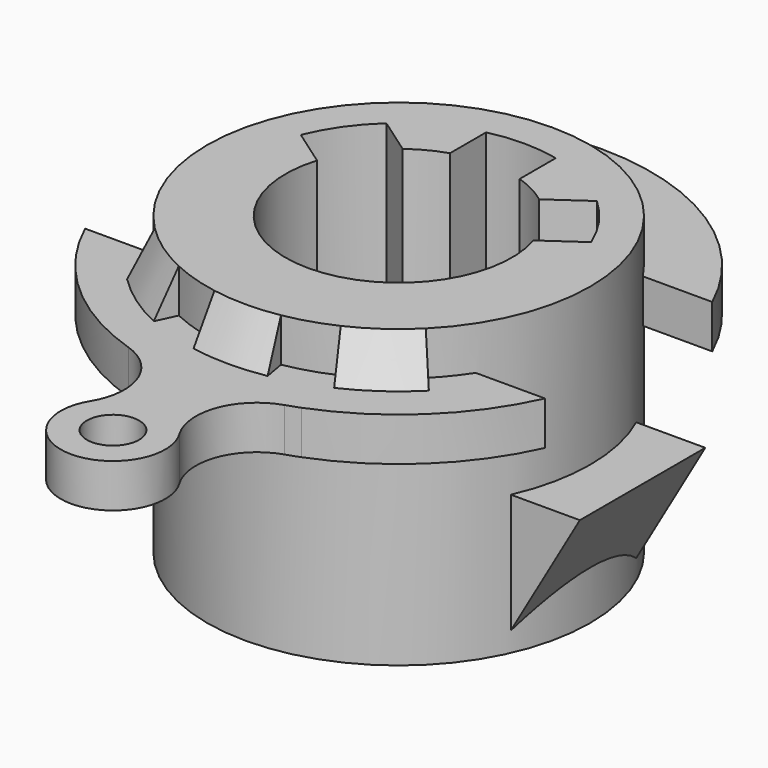
from build123d import *

# Parameters (mm, degrees)
F0_R           = 44
F1_DEPTH       = 68
F3_R           = 6
F4_DEPTH       = 10
F6_DEPTH       = 18
F8_ANGLE_BACK  = 10
F8_ANGLE       = 20
F12_ANGLE_BACK = 10
F12_ANGLE      = 20
F14_ANGLE_BACK = 10
F14_ANGLE      = 20


with BuildPart() as f1:
    # F0 (on Top) → F1 (new body)
    with BuildSketch(Plane.XY):
        Circle(F0_R)
        with BuildLine():
            ThreePointArc((-33.3407315568, 13.5792348554), (-29.4894735944, 20.6487517086), (-24.1635085752, 26.685667564))
            Line((-24.1635085752, 26.685667564), (-15.6760909215, 20.742713743))
            ThreePointArc((-15.6760909215, 20.742713743), (-12.0054639441, 23.0622816626), (-8, 24.7386337537))
            Line((-8, 24.7386337537), (-8, 35.0998575496))
            ThreePointArc((-8, 35.0998575496), (0, 36), (8, 35.0998575496))
            Line((8, 35.0998575496), (8, 24.7386337537))
            ThreePointArc((8, 24.7386337537), (12.0054639441, 23.0622816626), (15.6760909215, 20.742713743))
            Line((15.6760909215, 20.742713743), (24.1635085752, 26.685667564))
            ThreePointArc((24.1635085752, 26.685667564), (29.4894735944, 20.6487517086), (33.3407315568, 13.5792348554))
            Line((33.3407315568, 13.5792348554), (24.8533139031, 7.6362810343))
            ThreePointArc((24.8533139031, 7.6362810343), (0, -26), (-24.8533139031, 7.6362810343))
            Line((-24.8533139031, 7.6362810343), (-33.3407315568, 13.5792348554))
        make_face(mode=Mode.SUBTRACT)
    extrude(amount=F1_DEPTH)

    # F3 (on offset) → F4 (join)
    with BuildSketch(Plane.XY.offset(48)):
        with BuildLine():
            Line((-36.8781778292, -24), (-52.8015151298, -24))
            ThreePointArc((-52.8015151298, -24), (-38.6311115614, -43.2624227191), (-17.8938638331, -55.1707317073))
            ThreePointArc((-17.8938638331, -55.1707317073), (-9.0876412514, -63.6171726174), (-10.252187236, -75.7636022514))
            ThreePointArc((-10.252187236, -75.7636022514), (0, -94), (10.252187236, -75.7636022514))
            ThreePointArc((10.252187236, -75.7636022514), (9.0876412514, -63.6171726174), (17.8938638331, -55.1707317073))
            ThreePointArc((17.8938638331, -55.1707317073), (19.4267221495, -54.6498167108), (20.9444444444, -54.0863221796))
            ThreePointArc((20.9444444444, -54.0863221796), (39.8235273922, -42.1673649407), (52.8015151298, -24))
            Line((52.8015151298, -24), (36.8781778292, -24))
            ThreePointArc((36.8781778292, -24), (0, -44), (-36.8781778292, -24))
        make_face()
        with Locations((0, -82)):
            Circle(F3_R, mode=Mode.SUBTRACT)
        with BuildLine():
            Line((-52.8015151298, 24), (-36.8781778292, 24))
            ThreePointArc((-36.8781778292, 24), (0, 44), (36.8781778292, 24))
            Line((36.8781778292, 24), (52.8015151298, 24))
            ThreePointArc((52.8015151298, 24), (0, 58), (-52.8015151298, 24))
        make_face()
    extrude(amount=F4_DEPTH)

    # F5 (on Front) → F6 (join, symmetric)
    with BuildSketch(Plane.XZ):
        Polygon((56, 32), (39, 32), (39, 2.5551362713), align=None)
    extrude(amount=F6_DEPTH, both=True)

    # F7 (on Right) → F8 (revolve)
    with BuildSketch(Plane.YZ, mode=Mode.PRIVATE) as f8_sk:
        Polygon((-44, 58), (-44, 68), (-49, 58), align=None)
    revolve(f8_sk.sketch.rotate(Axis((0, 0, 36.8064753711), (0, 0, 1)), -F8_ANGLE_BACK), axis=Axis((0, 0, 36.8064753711), (0, 0, 1)), revolution_arc=F8_ANGLE)

    # F11 (on line) → F12 (revolve)
    with BuildSketch(Plane(origin=(0, 0, 0), x_dir=(-0.5735764364, 0.8191520443, 0), z_dir=(0.8191520443, 0.5735764364, 0)), mode=Mode.PRIVATE) as f12_sk:
        Polygon((-44, 58), (-44, 68), (-49, 58), align=None)
    revolve(f12_sk.sketch.rotate(Axis((0, 0, 36.8064753711), (0, 0, 1)), -F12_ANGLE_BACK), axis=Axis((0, 0, 36.8064753711), (0, 0, 1)), revolution_arc=F12_ANGLE)

    # F13 (on line) → F14 (revolve)
    with BuildSketch(Plane(origin=(0, 0, 0), x_dir=(0.5735764364, 0.8191520443, 0), z_dir=(0.8191520443, -0.5735764364, 0)), mode=Mode.PRIVATE) as f14_sk:
        Polygon((-49, 58), (-44, 58), (-44, 68), align=None)
    revolve(f14_sk.sketch.rotate(Axis((0, 0, 36.8064753711), (0, 0, 1)), -F14_ANGLE_BACK), axis=Axis((0, 0, 36.8064753711), (0, 0, 1)), revolution_arc=F14_ANGLE)


solid = f1.part
